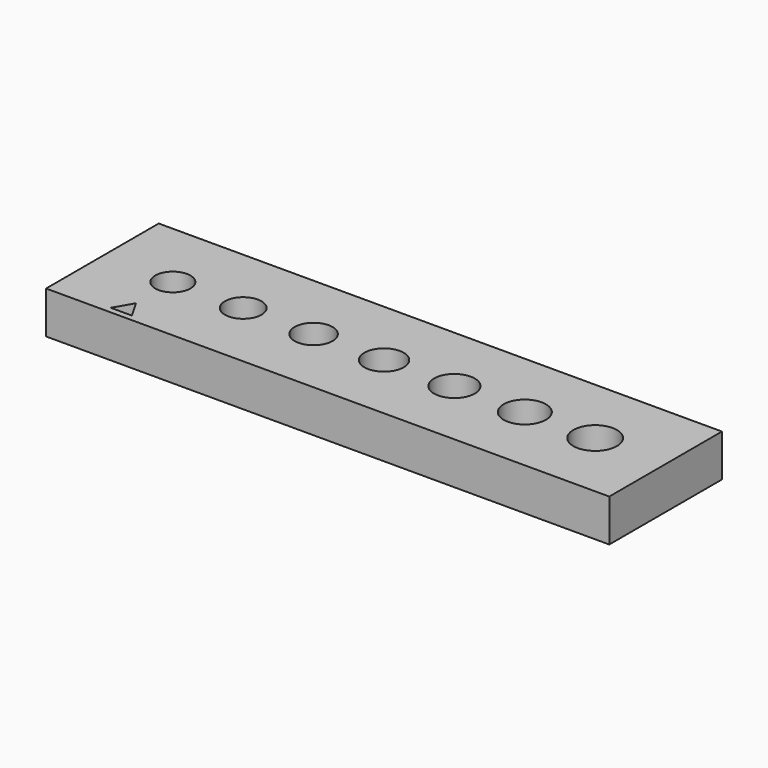
from build123d import *

# Parameters (mm, degrees)
SKETCH_W   = 40
SKETCH_H   = 10
SKETCH_R   = 1.25
SKETCH_R_2 = 1.35
SKETCH_R_3 = 1.3
SKETCH_R_4 = 1.4
SKETCH_R_5 = 1.45
SKETCH_R_6 = 1.5
SKETCH_R_7 = 1.55
PAD_DEPTH  = 3


with BuildPart() as part:
    # Sketch → Pad (new body)
    with BuildSketch(Plane.XY):
        with Locations((20, 5)):
            Rectangle(SKETCH_W, SKETCH_H)
        with Locations((5, 5)):
            Circle(SKETCH_R, mode=Mode.SUBTRACT)
        with Locations((15, 5)):
            Circle(SKETCH_R_2, mode=Mode.SUBTRACT)
        with Locations((10, 5)):
            Circle(SKETCH_R_3, mode=Mode.SUBTRACT)
        with Locations((20, 5)):
            Circle(SKETCH_R_4, mode=Mode.SUBTRACT)
        with Locations((25, 5)):
            Circle(SKETCH_R_5, mode=Mode.SUBTRACT)
        with Locations((30, 5)):
            Circle(SKETCH_R_6, mode=Mode.SUBTRACT)
        with Locations((35, 5)):
            Circle(SKETCH_R_7, mode=Mode.SUBTRACT)
        Polygon((4.25, 0.433013), (5.75, 0.433013), (5, 1.732051), align=None, mode=Mode.SUBTRACT)
    extrude(amount=PAD_DEPTH)


solid = part.part
